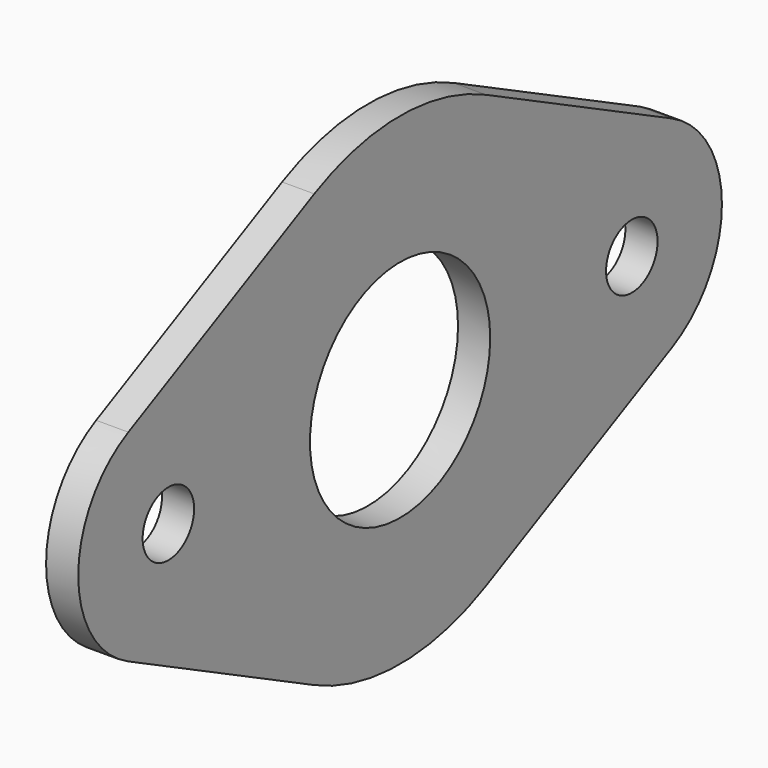
from build123d import *

# Parameters (mm, degrees)
F0_R     = 1
F0_R_2   = 3.5
F1_DEPTH = 1


with BuildPart() as f1:
    # F0 (on Right) → F1 (new body)
    with BuildSketch(Plane.YZ):
        with BuildLine():
            ThreePointArc((10.5555555556, -3.1353224577), (11.9744280496, -1.8446619684), (12.5, 0))
            ThreePointArc((12.5, 0), (11.9744280496, 1.8446619684), (10.5555555556, 3.1353224577))
            ThreePointArc((10.5555555556, 3.1353224577), (8.707798561, 3.4877812889), (6.9444444444, 2.8327886187))
            ThreePointArc((6.9444444444, 2.8327886187), (7.3598007219, 1.443375673), (7.5, 0))
            ThreePointArc((7.5, 0), (7.3598007219, -1.443375673), (6.9444444444, -2.8327886187))
            ThreePointArc((6.9444444444, -2.8327886187), (8.707798561, -3.4877812889), (10.5555555556, -3.1353224577))
        make_face()
        with Locations((9, 0)):
            Circle(F0_R, mode=Mode.SUBTRACT)
        with BuildLine():
            ThreePointArc((6.9444444444, 2.8327886187), (8.707798561, 3.4877812889), (10.5555555556, 3.1353224577))
            Line((10.5555555556, 3.1353224577), (3.3333333333, 6.7185481236))
            ThreePointArc((3.3333333333, 6.7185481236), (5.4939021419, 5.1055890214), (6.9444444444, 2.8327886187))
        make_face()
        with BuildLine():
            Line((3.3333333333, -6.7185481236), (10.5555555556, -3.1353224577))
            ThreePointArc((10.5555555556, -3.1353224577), (8.707798561, -3.4877812889), (6.9444444444, -2.8327886187))
            ThreePointArc((6.9444444444, -2.8327886187), (5.4939021419, -5.1055890214), (3.3333333333, -6.7185481236))
        make_face()
        with BuildLine():
            ThreePointArc((6.9444444444, -2.8327886187), (5.5, 0), (6.9444444444, 2.8327886187))
            ThreePointArc((6.9444444444, 2.8327886187), (5.4939021419, 5.1055890214), (3.3333333333, 6.7185481236))
            ThreePointArc((3.3333333333, 6.7185481236), (0, 7.5), (-3.3333333333, 6.7185481236))
            ThreePointArc((-3.3333333333, 6.7185481236), (-5.4939021419, 5.1055890214), (-6.9444444444, 2.8327886187))
            ThreePointArc((-6.9444444444, 2.8327886187), (-5.8819521777, 1.589898669), (-5.5, 0))
            ThreePointArc((-5.5, 0), (-5.8819521777, -1.589898669), (-6.9444444444, -2.8327886187))
            ThreePointArc((-6.9444444444, -2.8327886187), (-5.4939021419, -5.1055890214), (-3.3333333333, -6.7185481236))
            ThreePointArc((-3.3333333333, -6.7185481236), (0, -7.5), (3.3333333333, -6.7185481236))
            ThreePointArc((3.3333333333, -6.7185481236), (5.4939021419, -5.1055890214), (6.9444444444, -2.8327886187))
        make_face()
        Circle(F0_R_2, mode=Mode.SUBTRACT)
        with BuildLine():
            ThreePointArc((-6.9444444444, 2.8327886187), (-5.4939021419, 5.1055890214), (-3.3333333333, 6.7185481236))
            Line((-3.3333333333, 6.7185481236), (-10.5555555556, 3.1353224577))
            ThreePointArc((-10.5555555556, 3.1353224577), (-8.707798561, 3.4877812889), (-6.9444444444, 2.8327886187))
        make_face()
        with BuildLine():
            Line((-10.5555555556, -3.1353224577), (-3.3333333333, -6.7185481236))
            ThreePointArc((-3.3333333333, -6.7185481236), (-5.4939021419, -5.1055890214), (-6.9444444444, -2.8327886187))
            ThreePointArc((-6.9444444444, -2.8327886187), (-8.707798561, -3.4877812889), (-10.5555555556, -3.1353224577))
        make_face()
        with BuildLine():
            ThreePointArc((-6.9444444444, -2.8327886187), (-7.5, 0), (-6.9444444444, 2.8327886187))
            ThreePointArc((-6.9444444444, 2.8327886187), (-8.707798561, 3.4877812889), (-10.5555555556, 3.1353224577))
            ThreePointArc((-10.5555555556, 3.1353224577), (-12.5, 0), (-10.5555555556, -3.1353224577))
            ThreePointArc((-10.5555555556, -3.1353224577), (-8.707798561, -3.4877812889), (-6.9444444444, -2.8327886187))
        make_face()
        with Locations((-9, 0)):
            Circle(F0_R, mode=Mode.SUBTRACT)
        with BuildLine():
            ThreePointArc((-5.5, 0), (-5.8819521777, 1.589898669), (-6.9444444444, 2.8327886187))
            ThreePointArc((-6.9444444444, 2.8327886187), (-7.5, 0), (-6.9444444444, -2.8327886187))
            ThreePointArc((-6.9444444444, -2.8327886187), (-5.8819521777, -1.589898669), (-5.5, 0))
        make_face()
        with BuildLine():
            ThreePointArc((7.5, 0), (7.3598007219, 1.443375673), (6.9444444444, 2.8327886187))
            ThreePointArc((6.9444444444, 2.8327886187), (5.5, 0), (6.9444444444, -2.8327886187))
            ThreePointArc((6.9444444444, -2.8327886187), (7.3598007219, -1.443375673), (7.5, 0))
        make_face()
    extrude(amount=F1_DEPTH)


solid = f1.part
